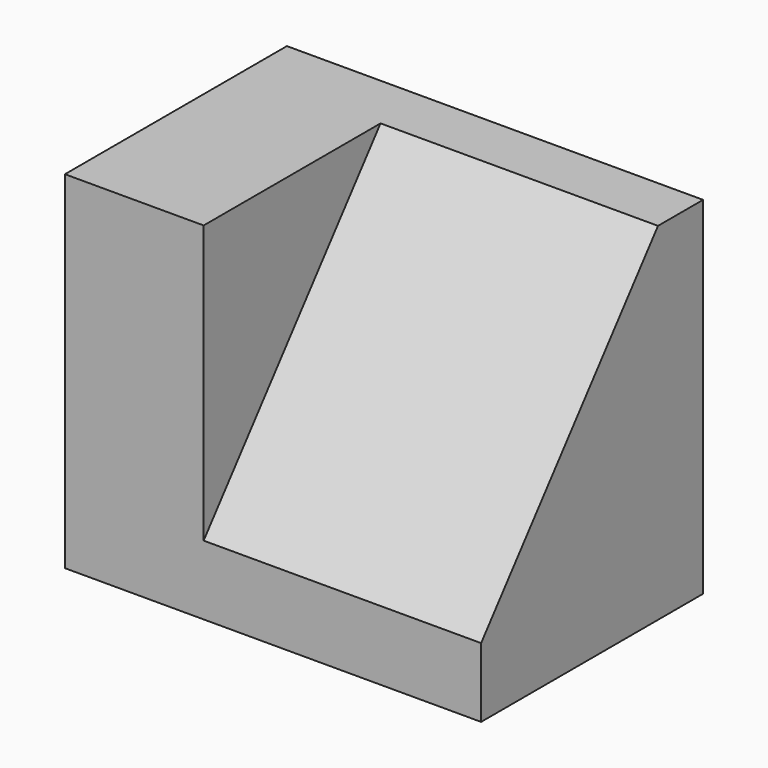
from build123d import *

# Parameters (mm, degrees)
F1_DEPTH = 25.4
F2_W     = 12.7
F2_H     = 31.75
F3_DEPTH = 25.4


with BuildPart() as f1:
    # F0 (on Right) → F1 (new body)
    with BuildSketch(Plane.YZ):
        Polygon((-25.4, 0), (0, 0), (0, 31.75), (-5.158795, 31.75), (-25.4, 6.35), align=None)
    extrude(amount=F1_DEPTH)

    # F2 (on Front) → F3 (join)
    with BuildSketch(Plane.XZ):
        with Locations((-6.35, 15.875)):
            Rectangle(F2_W, F2_H)
    extrude(amount=F3_DEPTH)


solid = f1.part
